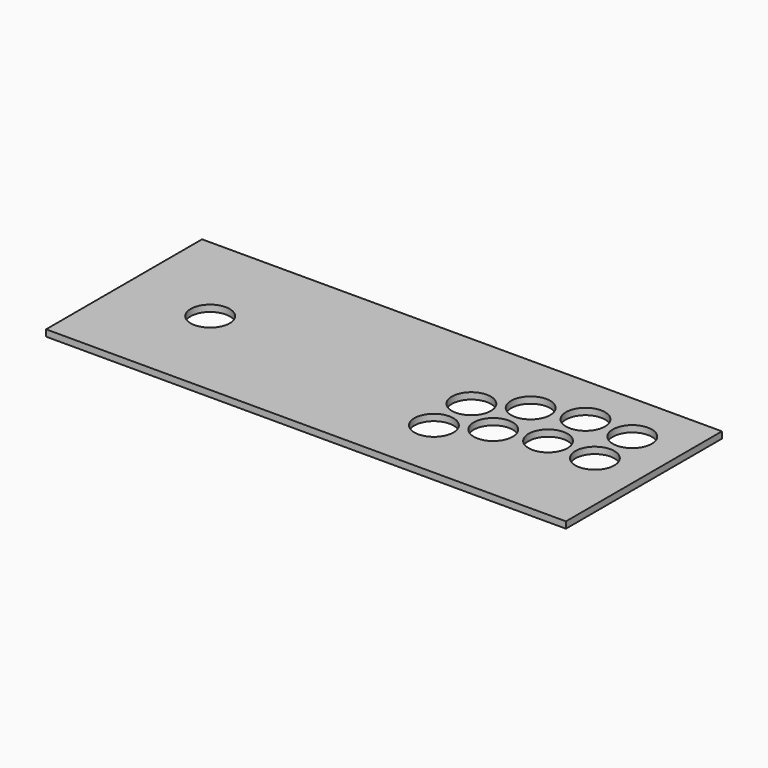
from build123d import *

# Parameters (mm, degrees)
F0_W     = 400
F0_H     = 150
F0_R     = 15
F1_DEPTH = 5


with BuildPart() as f1:
    # F0 (on Top) → F1 (new body)
    with BuildSketch(Plane.XY):
        Rectangle(F0_W, F0_H)
        with Locations((60, -27)):
            Circle(F0_R, mode=Mode.SUBTRACT)
        with Locations((91.25, -9)):
            Circle(F0_R, mode=Mode.SUBTRACT)
        with Locations((-133.75, 0)):
            Circle(F0_R, mode=Mode.SUBTRACT)
        with Locations((60, 9)):
            Circle(F0_R, mode=Mode.SUBTRACT)
        with Locations((91.25, 27)):
            Circle(F0_R, mode=Mode.SUBTRACT)
        with Locations((126.25, 0)):
            Circle(F0_R, mode=Mode.SUBTRACT)
        with Locations((162.25, 0)):
            Circle(F0_R, mode=Mode.SUBTRACT)
        with Locations((126.25, 36)):
            Circle(F0_R, mode=Mode.SUBTRACT)
        with Locations((162.25, 36)):
            Circle(F0_R, mode=Mode.SUBTRACT)
    extrude(amount=F1_DEPTH)


solid = f1.part
